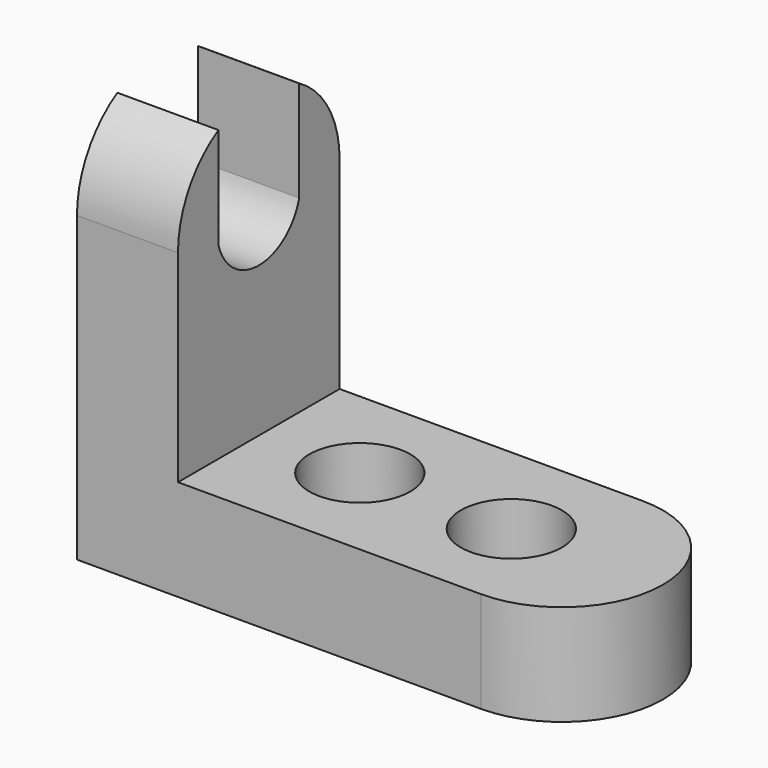
from build123d import *

# Parameters (mm, degrees)
F1_DEPTH  = 25.4
F2_R      = 12.7
F3_DEPTH  = 25.4
F4_R      = 12.7
F5_DEPTH  = 25.4
F6_W      = 25.4
F6_H      = 50.8
F7_DEPTH  = 76.2
F9_DEPTH  = 25.4
F11_DEPTH = 25.4
F13_DEPTH = 25.4


with BuildPart() as f1:
    # F0 (on Top) → F1 (new body)
    with BuildSketch(Plane.XY):
        with BuildLine():
            ThreePointArc((51.4803717834, -15.7496363992), (76.8803717834, 9.6503636008), (51.4803717834, 35.0503636008))
            Line((51.4803717834, 35.0503636008), (-50.1196282166, 35.0503636008))
            Line((-50.1196282166, 35.0503636008), (-50.1196282166, -15.7496363992))
            Line((-50.1196282166, -15.7496363992), (51.4803717834, -15.7496363992))
        make_face()
    extrude(amount=F1_DEPTH)

    # F2 (on face) → F3 (cut)
    with BuildSketch(Plane.XY.offset(25.4)):
        with Locations((0.6803717834, 9.6503636008)):
            Circle(F2_R)
    extrude(amount=-F3_DEPTH, mode=Mode.SUBTRACT)

    # F4 (on face) → F5 (cut)
    with BuildSketch(Plane.XY.offset(25.4)):
        with Locations((38.7803717834, 9.6503636008)):
            Circle(F4_R)
    extrude(amount=-F5_DEPTH, mode=Mode.SUBTRACT)

    # F6 (on face) → F7 (join)
    with BuildSketch(Plane.XY.offset(25.4)):
        with Locations((-37.4196282166, 9.6503636008)):
            Rectangle(F6_W, F6_H)
    extrude(amount=F7_DEPTH)

    # F8 (on face) → F9 (cut)
    with BuildSketch(Plane.YZ.offset(-24.7196282166)):
        with BuildLine():
            ThreePointArc((9.6503637335, 101.6), (27.6108758899, 94.1605121953), (35.0503636008, 76.2))
            Line((35.0503636008, 76.2), (35.0503636008, 101.6))
            Line((35.0503636008, 101.6), (9.6503637335, 101.6))
        make_face()
    extrude(amount=-F9_DEPTH, mode=Mode.SUBTRACT)

    # F10 (on face) → F11 (cut)
    with BuildSketch(Plane.YZ.offset(-24.7196282166)):
        with BuildLine():
            ThreePointArc((-15.7496363992, 76.2), (-8.31014861, 94.1605122734), (9.6503636892, 101.6))
            Line((9.6503636008, 101.6), (-15.7496363992, 101.6))
            Line((-15.7496363992, 101.6), (-15.7496363992, 76.2))
        make_face()
    extrude(amount=-F11_DEPTH, mode=Mode.SUBTRACT)

    # F12 (on face) → F13 (cut)
    with BuildSketch(Plane.YZ.offset(-24.7196282166)):
        with BuildLine():
            ThreePointArc((9.6503636892, 101.6), (3.0763598979, 100.7345159992), (-3.0496363992, 98.1970452561))
            Line((-3.0496363992, 98.1970452561), (-3.0496363992, 79.6029547439))
            Line((-3.0496363992, 79.6029547439), (-3.0496363992, 72.7970452561))
            ThreePointArc((-3.0496363992, 72.7970452561), (9.6503636008, 63.0519925088), (22.3503636008, 72.7970452561))
            Line((22.3503636008, 72.7970452561), (22.3503636008, 79.6029547439))
            Line((22.3503636008, 79.6029547439), (22.3503636008, 98.1970452561))
            ThreePointArc((22.3503636008, 98.1970452561), (16.2243674105, 100.7345159706), (9.6503637335, 101.6))
        make_face()
    extrude(amount=-F13_DEPTH, mode=Mode.SUBTRACT)


solid = f1.part
